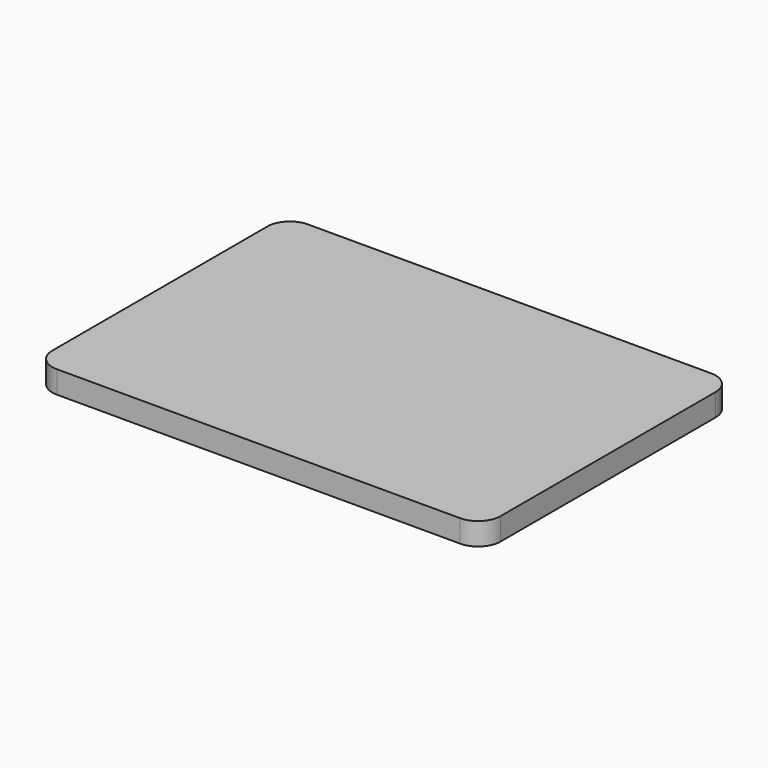
from build123d import *

# Parameters (mm, degrees)
SKETCH_W  = 1000
SKETCH_H  = 700
PAD_DEPTH = 50
FILLET_R  = 50


with BuildPart() as part:
    # Sketch → Pad (new body)
    with BuildSketch(Plane.XY):
        with Locations((500, 350)):
            Rectangle(SKETCH_W, SKETCH_H)
    extrude(amount=PAD_DEPTH)

    # Fillet
    fillet_edges = [part.edges().sort_by_distance(p)[0] for p in [
        (1000, 0, 25),
        (1000, 700, 25),
        (0, 0, 25),
        (0, 700, 25),
    ]]
    fillet(fillet_edges, radius=FILLET_R)


solid = part.part
